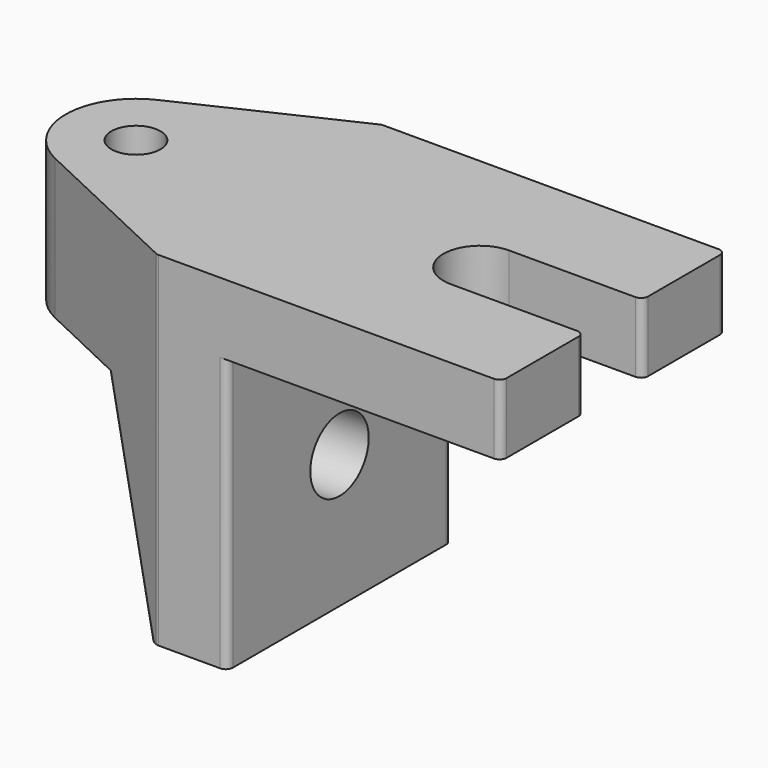
from build123d import *

# Parameters (mm, degrees)
SKETCH_R        = 1.75
PAD_DEPTH       = 24.5
SKETCH001_W     = 15
SKETCH001_H     = 12
POCKET_DEPTH    = 14.5
SKETCH002_W     = 20
SKETCH002_H     = 20
POCKET001_DEPTH = 19.5
SKETCH003_R     = 2.6
POCKET002_DEPTH = 24.501
POCKET003_DEPTH = 20.001
FILLET_R        = 0.5


with BuildPart() as part:
    # Sketch → Pad (new body)
    with BuildSketch(Plane.XY):
        with BuildLine():
            Line((-2.130082, 4.523577), (9.5, 10))
            Line((9.5, 10), (34, 10))
            Line((34, 10), (34, 2.6))
            Line((24.5, 2.6), (34, 2.6))
            ThreePointArc((24.5, 2.6), (21.9, 0), (24.5, -2.6))
            Line((24.5, -2.6), (34, -2.6))
            Line((34, -2.6), (34, -10))
            Line((34, -10), (9.5, -10))
            Line((9.5, -10), (-2.130082, -4.523577))
            ThreePointArc((-2.130082, 4.523577), (-5, 0), (-2.130082, -4.523577))
        make_face()
        Circle(SKETCH_R, mode=Mode.SUBTRACT)
    extrude(amount=PAD_DEPTH)

    # Sketch001 (on Face12 of Pad) → Pocket (cut)
    with BuildSketch(Plane(origin=(0, 0, 0), x_dir=(1, 0, 0), z_dir=(0, 0, -1))):
        with Locations((2, 0)):
            Rectangle(SKETCH001_W, SKETCH001_H)
    extrude(amount=-POCKET_DEPTH, mode=Mode.SUBTRACT)

    # Sketch002 (on Face4 of Pocket) → Pocket001 (cut)
    with BuildSketch(Plane(origin=(0, 0, 0), x_dir=(1, 0, 0), z_dir=(0, 0, -1))):
        with Locations((24.5, 0)):
            Rectangle(SKETCH002_W, SKETCH002_H)
    extrude(amount=-POCKET001_DEPTH, mode=Mode.SUBTRACT)

    # Sketch003 (on Face9 of Pocket001) → Pocket002 (cut, through all)
    with BuildSketch(Plane(origin=(9.5, 0, 0), x_dir=(0, -1, 0), z_dir=(-1, 0, 0))):
        with Locations((0, 9.5)):
            Circle(SKETCH003_R)
    extrude(amount=-POCKET002_DEPTH, mode=Mode.SUBTRACT)

    # Sketch004 (on Face5 of Pocket002) → Pocket003 (cut, through all)
    with BuildSketch(Plane(origin=(0, 10, 0), x_dir=(-1, 0, 0), z_dir=(0, 1, 0))):
        Polygon((-8.9, 0), (-4, 14.49), (0, 14.49), (0, 0), align=None)
    extrude(amount=-POCKET003_DEPTH, mode=Mode.SUBTRACT)

    # Fillet
    fillet_edges = [part.edges().sort_by_distance(p)[0] for p in [
        (6.45, -8.563803, 7.245),
        (6.45, -6, 7.245),
        (6.45, 6, 7.245),
        (6.45, 8.563803, 7.245),
        (14.5, -10, 9.75),
        (14.5, 10, 9.75),
        (34, -2.6, 22),
        (34, 2.6, 22),
        (9.5, -10, 12.25),
        (9.5, 10, 12.25),
        (34, -10, 22),
        (34, 10, 22),
    ]]
    fillet(fillet_edges, radius=FILLET_R)


solid = part.part
